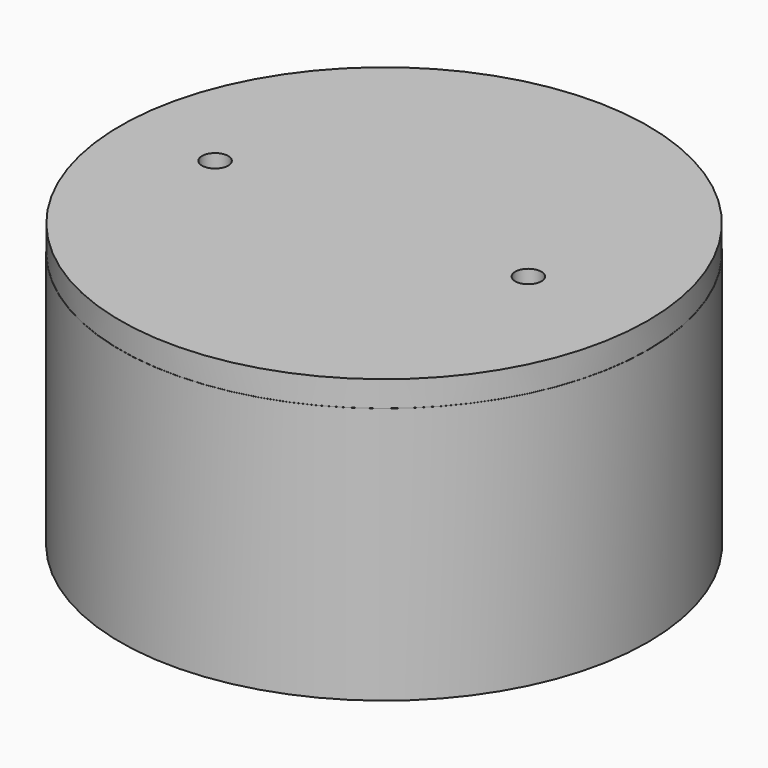
from build123d import *

# Parameters (mm, degrees)
F0_R      = 51.312695
F0_R_2    = 49.619791
F1_DEPTH  = 50
F2_R      = 51.280405
F3_DEPTH  = 5
F3_FACE_R = 51.280405
F4_DEPTH  = 5
F5_R      = 2.547455
F5_R_2    = 2.547454
F6_DEPTH  = 55.001


with BuildPart() as f1:
    # F0 (on Top) → F1 (new body)
    with BuildSketch(Plane.XY):
        Circle(F0_R)
        Circle(F0_R_2, mode=Mode.SUBTRACT)
    extrude(amount=-F1_DEPTH)

    # F2 (on Top) → F3 (join)
    with BuildSketch(Plane.XY):
        Circle(F2_R)
    extrude(amount=F3_DEPTH)

    # F3_face (on face) → F4 (join)
    with BuildSketch(Plane.XY.offset(5)):
        Circle(F3_FACE_R)
    extrude(amount=-F4_DEPTH)

    # F5 (on face) → F6 (cut, through all)
    with BuildSketch(Plane.XY.offset(5)):
        with Locations((-32.852452, 0)):
            Circle(F5_R)
        with Locations((28.030308, 0)):
            Circle(F5_R_2)
    extrude(amount=-F6_DEPTH, mode=Mode.SUBTRACT)


solid = f1.part
